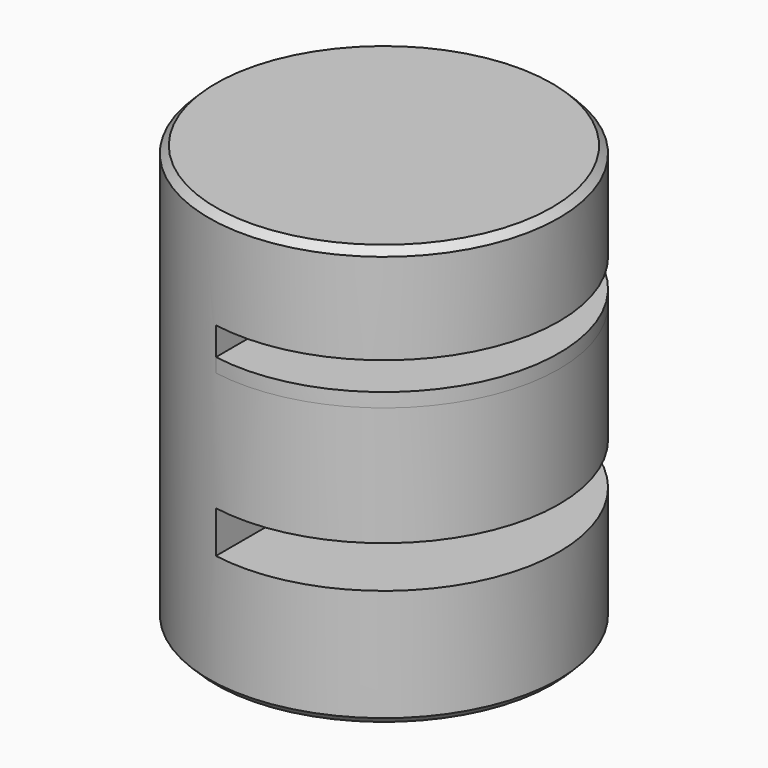
from build123d import *

# Parameters (mm, degrees)
F0_R      = 25
F1_DEPTH  = 60
F2_W      = 61.5676790476
F2_H      = 184.1998919845
F3_DEPTH  = 6
F10_SIZE  = 1
F11_SIZE  = 1
F12_DEPTH = 2


with BuildPart() as f1:
    # F0 (on Top) → F1 (new body)
    with BuildSketch(Plane.XY):
        Circle(F0_R)
    extrude(amount=F1_DEPTH)


with BuildPart() as f3:
    # F2 (on Top) → F3 (new body)
    with BuildSketch(Plane.XY):
        with Locations((-161.507062614, 31.8613536656)):
            Rectangle(F2_W, F2_H)
    extrude(amount=F3_DEPTH)


with BuildPart() as f4_1:
    # F4: copy of F3
    add(f3.part.moved(Location((188, 0, 17))))


with BuildPart() as f5_1:
    # F5: copy of F4_1
    add(f4_1.part.moved(Location((0, 0, 17))))


with BuildPart() as f7_1:
    # F7: copy of F4_1
    add(f4_1.part.moved(Location((0, 0, 23))))


with BuildPart() as f1_1:
    add(f1.part)

    # F8: cut F4_1, F7_1
    add(f4_1.part, mode=Mode.SUBTRACT)
    add(f7_1.part, mode=Mode.SUBTRACT)

    # F10
    f10_edges = [f1_1.edges().sort_by_distance(p)[0] for p in [
        (-25, 0, 60),
    ]]
    chamfer(f10_edges, length=F10_SIZE)

    # F11
    f11_edges = [f1_1.edges().sort_by_distance(p)[0] for p in [
        (-25, 0, 0),
    ]]
    chamfer(f11_edges, length=F11_SIZE)

    # F12 (add): a face of the model
    f12_faces = [f1_1.faces().sort_by_distance(p)[0] for p in [
        (8.3329049889, 0, 40),
    ]]
    extrude(f12_faces, amount=F12_DEPTH)


solid = f1_1.part
